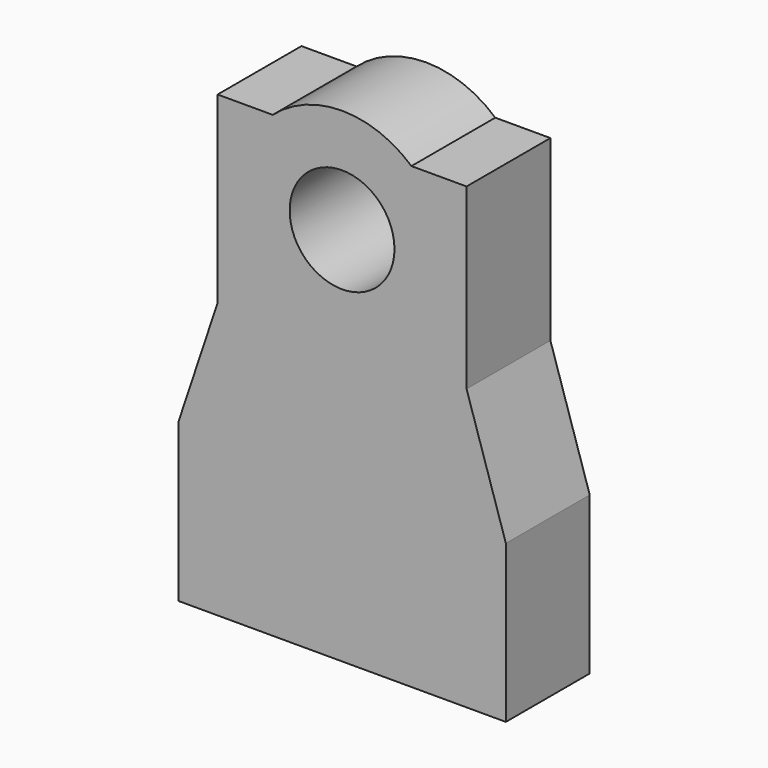
from build123d import *

# Parameters (mm, degrees)
F0_R     = 4
F1_DEPTH = 4
F2_R     = 1.5
F3_DEPTH = 6


with BuildPart() as f1:
    # F0 (on Front) → F1 (new body, symmetric)
    with BuildSketch(Plane.XZ):
        with BuildLine():
            Line((-12.5, -3.463058), (-12.5, -15.463058))
            Line((-12.5, -15.463058), (12.5, -15.463058))
            Line((12.5, -15.463058), (12.5, -3.463058))
            Line((12.5, -3.463058), (9.5, 5.934093))
            Line((9.5, 5.934093), (9.5, 19.536942))
            Line((9.5, 19.536942), (5.292, 19.536942))
            ThreePointArc((5.292, 19.536942), (0, 21.537381), (-5.292, 19.536942))
            Line((-5.292, 19.536942), (-9.5, 19.536942))
            Line((-9.5, 19.536942), (-9.5, 5.535561))
            Line((-9.5, 5.535561), (-12.5, -3.463058))
        make_face()
        with Locations((0, 13.537381)):
            Circle(F0_R, mode=Mode.SUBTRACT)
    extrude(amount=F1_DEPTH, both=True)

    # F2 (on face) → F3 (cut)
    with BuildSketch(Plane(origin=(0, 0, -15.463058), x_dir=(1, 0, 0), z_dir=(0, 0, -1))):
        with Locations((-8, 0)):
            Circle(F2_R)
        with Locations((8, 0)):
            Circle(F2_R)
    extrude(amount=-F3_DEPTH, mode=Mode.SUBTRACT)


solid = f1.part
